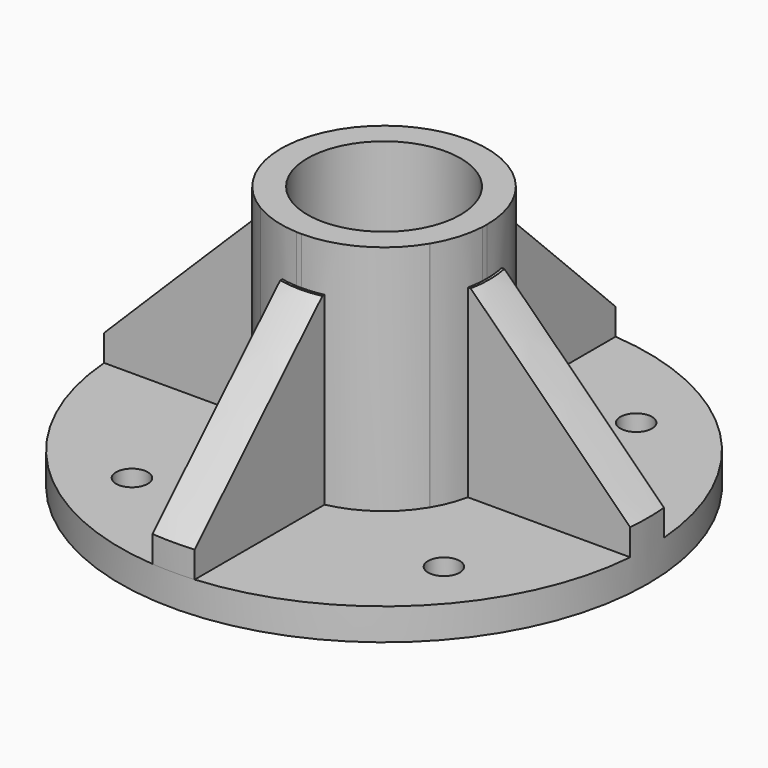
from build123d import *

# Parameters (mm, degrees)
F0_R      = 14.5
F1_DEPTH  = 50
F2_DEPTH  = 2
F3_R      = 50
F3_R_2    = 3
F4_DEPTH  = 6
F6_DEPTH  = 35
F7_SIZE   = 30
F8_COUNT  = 4
F10_R     = 1.5
F11_DEPTH = 30


with BuildPart() as f1:
    # F0 (on Top) → F1 (new body)
    with BuildSketch(Plane.XY):
        with BuildLine():
            ThreePointArc((19.475849062, -0.970207871), (19.4939613305, -0.4852542068), (19.5, 0))
            ThreePointArc((19.5, 0), (16.9843331812, 9.5803145245), (10.0864178063, 16.6887439862))
            ThreePointArc((10.0864178063, 16.6887439862), (10.0432424607, 16.7147623637), (10, 16.7406690428))
            ThreePointArc((10, 16.7406690428), (0, 19.5), (-10, 16.7406690428))
            ThreePointArc((-10, 16.7406690428), (-10.0432424607, -16.7147623637), (19.475849062, -0.970207871))
        make_face()
        Circle(F0_R, mode=Mode.SUBTRACT)
    extrude(amount=F1_DEPTH)

    # F0 (on Top) → F2 (join)
    with BuildSketch(Plane.XY):
        Circle(F0_R)
    extrude(amount=F2_DEPTH)

    # F3 (on Top) → F4 (join)
    with BuildSketch(Plane.XY):
        Circle(F3_R)
        with Locations((-23.5907118767, -30.2173215896)):
            Circle(F3_R_2, mode=Mode.SUBTRACT)
        with Locations((30.2173215896, -23.5907118767)):
            Circle(F3_R_2, mode=Mode.SUBTRACT)
        with Locations((-30.2173215896, 23.5907118767)):
            Circle(F3_R_2, mode=Mode.SUBTRACT)
        with Locations((23.5907118767, 30.2173215896)):
            Circle(F3_R_2, mode=Mode.SUBTRACT)
    extrude(amount=F4_DEPTH)

    # F5 (on face) → F6 (join)
    with BuildSketch(Plane.XY.offset(6)):
        with BuildLine():
            Line((4, 19.085334684), (4, 49.8397431775))
            ThreePointArc((4, 49.8397431775), (0, 50), (-4, 49.8397431775))
            Line((-4, 49.8397431775), (-4, 19.085334684))
            ThreePointArc((-4, 19.085334684), (0, 19.5), (4, 19.085334684))
        make_face()
    extrude(amount=F6_DEPTH)

    # F7
    f7_edges = [f1.edges().sort_by_distance(p)[0] for p in [
        (0, 50, 41),
    ]]
    chamfer(f7_edges, length=F7_SIZE)

    # F8: F1 ×4 about axis
    f8_axis = Axis((0, 0, 0), (0, 0, -1))


with BuildPart() as f1_1:
    add(f1.part)
    for i in range(1, F8_COUNT):
        add(f1.part.rotate(f8_axis, i * 360 / F8_COUNT))

    # F10 (on face) → F11 (cut)
    with BuildSketch(Plane(origin=(0, 0, 0), x_dir=(0.7071067812, -0.7071067812, 0), z_dir=(-0.7071067812, -0.7071067812, 0))):
        with Locations((0, 40.1646271348)):
            Circle(F10_R)
    extrude(amount=-F11_DEPTH, mode=Mode.SUBTRACT)


solid = f1_1.part
